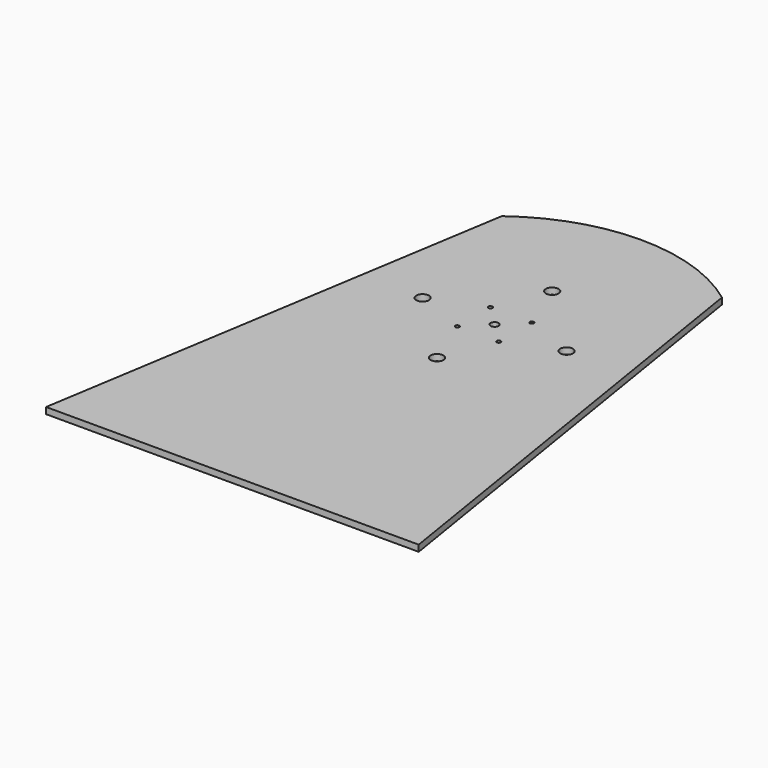
from build123d import *

# Parameters (mm, degrees)
F0_W     = 82.55
F0_H     = 355.6
F1_DEPTH = 4.7625
F3_D     = 9.525
F4_D     = 3
F5_D     = 6
F7_DEPTH = 4.7625


with BuildPart() as f1:
    # F0 (on Top) → F1 (new body)
    with BuildSketch(Plane.XY):
        with Locations((41.275, 0)):
            Rectangle(F0_W, F0_H)
        Polygon((82.55, 177.8), (82.55, -177.8), (139.7, -177.8), align=None)
        with Locations((-41.275, 0)):
            Rectangle(F0_W, F0_H)
        Polygon((-139.7, -177.8), (-82.55, -177.8), (-82.55, 177.8), align=None)
    extrude(amount=F1_DEPTH)

    # F3 (through all)
    with Locations(Plane.XY.offset(4.7625)):
        with Locations((-53.975, 67.945), (0, 121.92), (53.975, 67.945), (0, 13.97)):
            Hole(F3_D / 2)

    # F4 (through all)
    with Locations(Plane.XY.offset(4.7625)):
        with Locations((15.5, 83.445), (-15.5, 83.445), (-15.5, 52.445), (15.5, 52.445)):
            Hole(F4_D / 2)

    # F5 (through all)
    with Locations(Plane.XY.offset(4.7625)):
        with Locations((0, 67.945)):
            Hole(F5_D / 2)

    # F6 (on face) → F7 (join)
    with BuildSketch(Plane.XY.offset(4.7625)):
        with BuildLine():
            Line((-82.55, 177.8), (82.55, 177.8))
            ThreePointArc((82.55, 177.8), (0, 205.359059), (-82.55, 177.8))
        make_face()
    extrude(amount=-F7_DEPTH)


solid = f1.part
